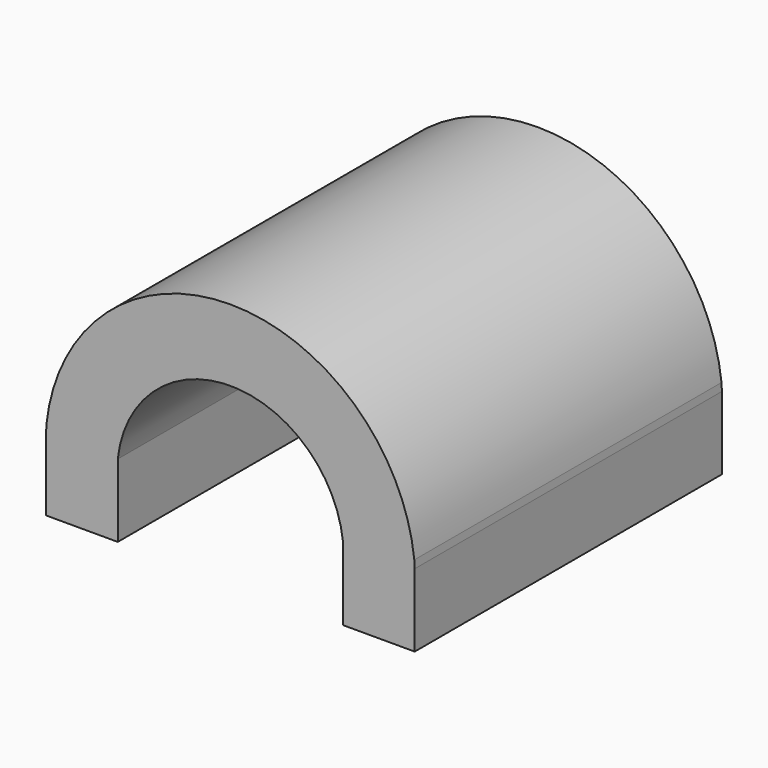
from build123d import *

# Parameters (mm, degrees)
F1_DEPTH = 952.5


with BuildPart() as f1:
    # F0 (on Front) → F1 (new body)
    with BuildSketch(Plane.XZ):
        with BuildLine():
            Line((-177.8, 0), (0, 0))
            Line((0, 0), (0, 120.65))
            Line((0, 120.65), (0, 181.00822))
            ThreePointArc((0, 181.00822), (279.4, 431.854267), (558.8, 181.00822))
            Line((558.8, 181.00822), (558.8, 120.65))
            Line((558.8, 120.65), (558.8, 0))
            Line((558.8, 0), (736.6, 0))
            Line((736.6, 0), (736.6, 120.65))
            Line((736.6, 120.65), (736.6, 181.00822))
            Line((736.6, 181.00822), (735.57179, 200.102048))
            ThreePointArc((735.57179, 200.102048), (279.4, 609.654267), (-176.77179, 200.102048))
            Line((-176.77179, 200.102048), (-177.8, 181.00822))
            Line((-177.8, 181.00822), (-177.8, 120.65))
            Line((-177.8, 120.65), (-177.8, 0))
        make_face()
    extrude(amount=F1_DEPTH)


solid = f1.part
